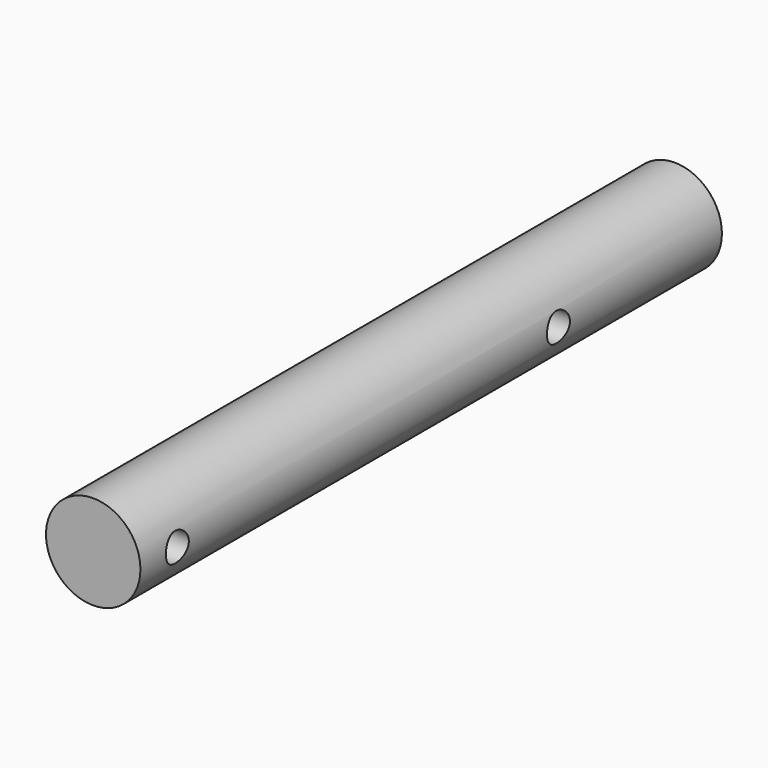
from build123d import *

# Parameters (mm, degrees)
F0_R     = 9.868
F1_DEPTH = 151.92
F3_R     = 3
F4_DEPTH = 24.869


with BuildPart() as f1:
    # F0 (on Front) → F1 (new body)
    with BuildSketch(Plane.XZ):
        Circle(F0_R)
    extrude(amount=F1_DEPTH)

    # F3 (on offset) → F4 (cut, through all)
    with BuildSketch(Plane.YZ.offset(15)):
        with Locations((-142.268, 0)):
            Circle(F3_R)
        with Locations((-42.7, 0)):
            Circle(F3_R)
    extrude(amount=-F4_DEPTH, mode=Mode.SUBTRACT)


solid = f1.part
